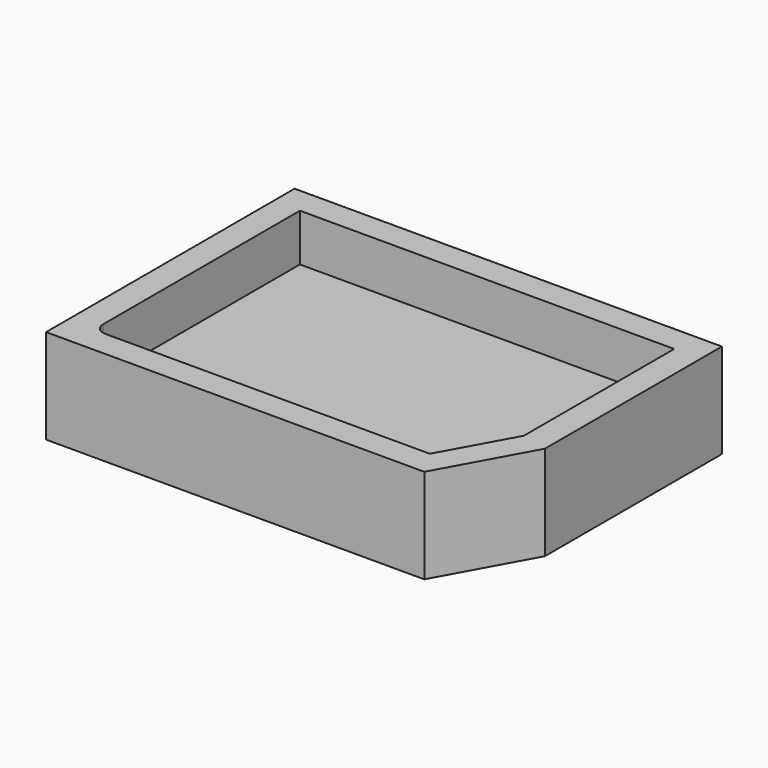
from build123d import *

# Parameters (mm, degrees)
F1_DEPTH = 10.16
F3_DEPTH = 5.08
F4_R     = 1.27


with BuildPart() as f1:
    # F0 (on Top) → F1 (new body)
    with BuildSketch(Plane.XY):
        Polygon((-9.3105762227, -28.0902255327), (-4.0396083556, -18.4977187932), (-4.0396083556, 5.2447912779), (-49.8968251661, 5.2447912779), (-49.8968251661, -28.0902255327), align=None)
        Polygon((-47.0520251661, -25.2454255327), (-47.0520251661, 2.3999912779), (-6.8844083556, 2.3999912779), (-6.8844083556, -17.7676087221), (-10.9933793675, -25.2454255327), align=None, mode=Mode.SUBTRACT)
    extrude(amount=F1_DEPTH)

    # F4
    f4_edges = [f1.edges().sort_by_distance(p)[0] for p in [
        (-47.052025, -25.245426, 5.08),
    ]]
    fillet(f4_edges, radius=F4_R)


with BuildPart() as f3:
    # F2 (on face) → F3 (new body)
    with BuildSketch(Plane.XY):
        Polygon((-6.8844083556, -17.7676087221), (-6.8844083556, 2.3999912779), (-47.0520251661, 2.3999912779), (-47.0520251661, -25.2454255327), (-10.9933793675, -25.2454255327), align=None)
    extrude(amount=F3_DEPTH)


solid = Compound([f1.part, f3.part])
